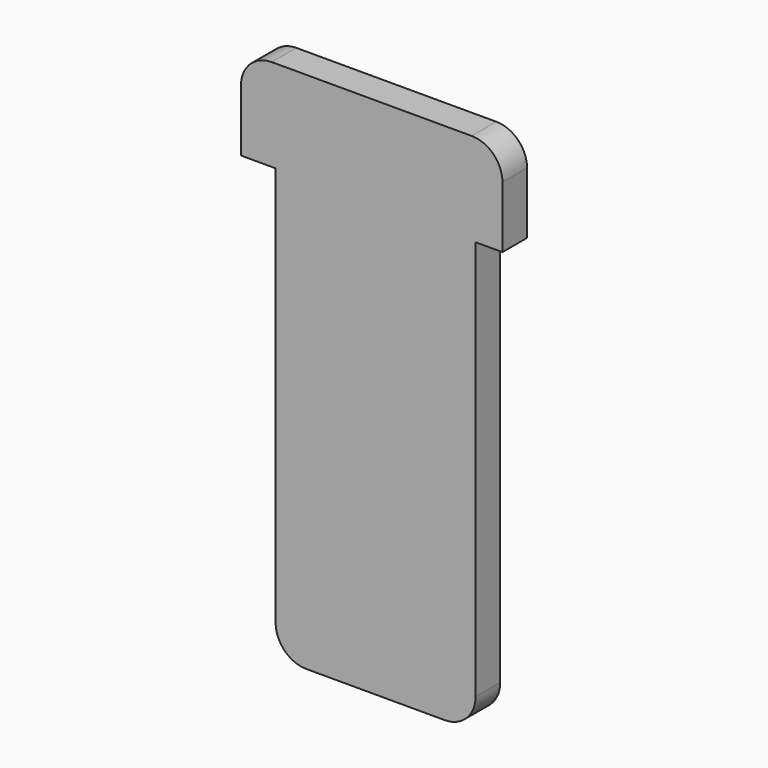
from build123d import *

# Parameters (mm, degrees)
F0_W     = 13
F0_H     = 28
F1_DEPTH = 2
F2_R     = 2
F3_R     = 2


with BuildPart() as f1:
    # F0 (on Front) → F1 (new body)
    with BuildSketch(Plane.XZ):
        Polygon((-8.465854, 10.590909), (-6.211373, 10.590909), (6.788627, 10.590909), (8.534146, 10.590909), (8.534146, 16.590909), (-8.465854, 16.590909), align=None)
        with Locations((0.288627, -3.409091)):
            Rectangle(F0_W, F0_H)
    extrude(amount=F1_DEPTH)

    # F2
    f2_edges = [f1.edges().sort_by_distance(p)[0] for p in [
        (-8.465854, -1, 16.590909),
        (-6.211373, -1, -17.409091),
    ]]
    fillet(f2_edges, radius=F2_R)

    # F3
    f3_edges = [f1.edges().sort_by_distance(p)[0] for p in [
        (8.534146, -1, 16.590909),
        (6.788627, -1, -17.409091),
    ]]
    fillet(f3_edges, radius=F3_R)


solid = f1.part
